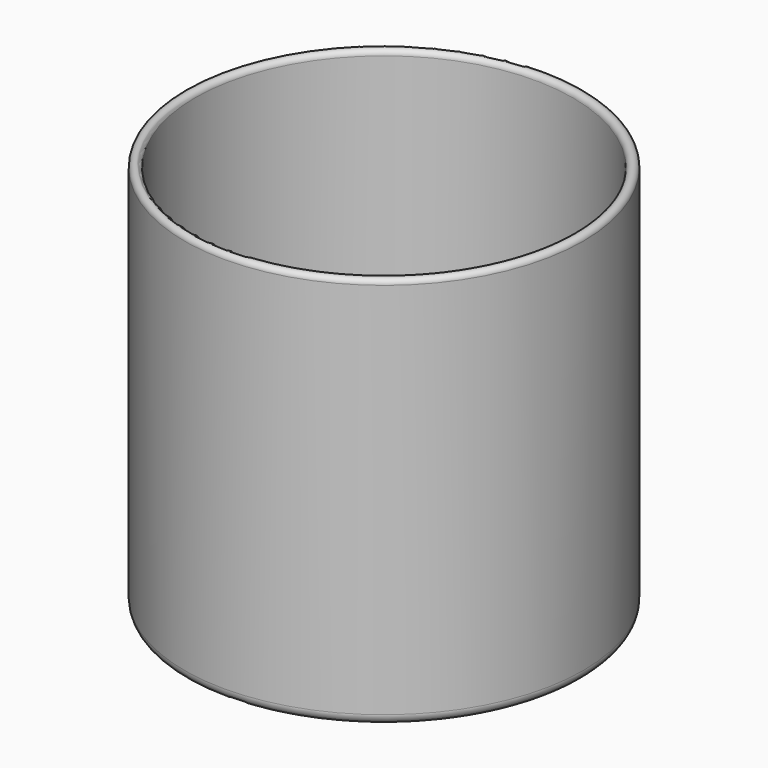
from build123d import *


with BuildPart() as part:
    # Sketch → Revolution (revolve)
    with BuildSketch(Plane.XZ):
        with BuildLine():
            Line((-54.5, 0), (0, 0))
            Line((0, 3), (0, 0))
            Line((0, 3), (-51.5, 3))
            ThreePointArc((-54.5, 6), (-53.62132, 3.87868), (-51.5, 3))
            Line((-54.5, 112), (-54.5, 6))
            ThreePointArc((-54.5, 112), (-56, 113.5), (-57.5, 112))
            Line((-57.5, 3), (-57.5, 112))
            ThreePointArc((-57.5, 3), (-56.62132, 0.87868), (-54.5, 0))
        make_face()
    revolve(axis=Axis((0, 0, 0), (0, 0, 1)))


solid = part.part
